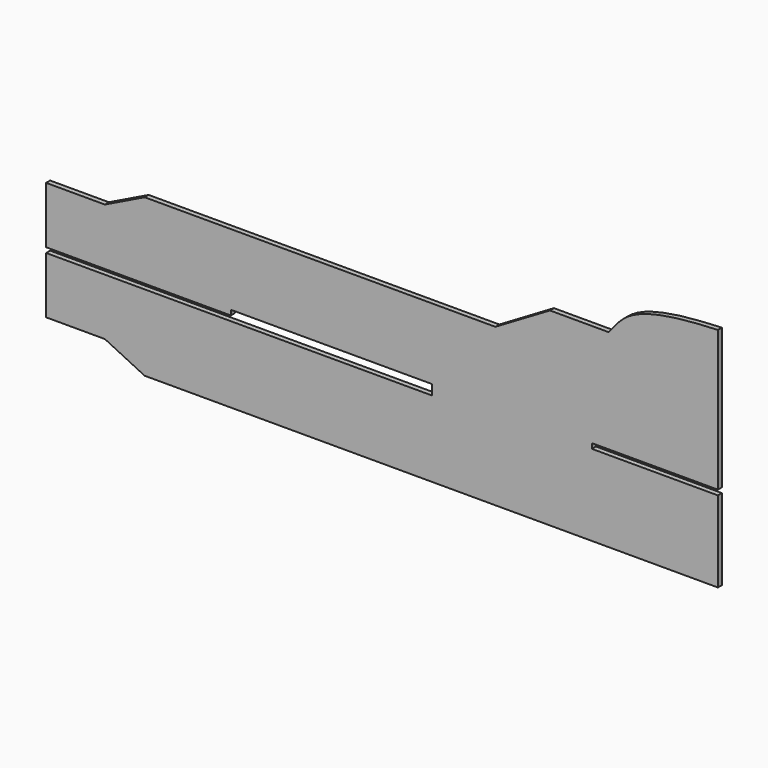
from build123d import *

# Parameters (mm, degrees)
F1_DEPTH = 6


with BuildPart() as f1:
    # F0 (on Front) → F1 (new body)
    with BuildSketch(Plane.XZ):
        with BuildLine():
            Line((-254.1150648835, 130.6133969236), (-254.1150648835, 63.1133969236))
            Line((-254.1150648835, 63.1133969236), (-34.1150648835, 63.1133969236))
            Line((-34.1150648835, 63.1133969236), (-34.1150648835, 69.1133969236))
            Line((-34.1150648835, 69.1133969236), (205.2400112152, 69.1133969236))
            Line((205.2400112152, 69.1133969236), (205.2400112152, 57.1133969236))
            Line((205.2400112152, 57.1133969236), (-254.1150648835, 57.1133969236))
            Line((-254.1150648835, 57.1133969236), (-254.1150648835, -10.3866030764))
            Line((-254.1150648835, -10.3866030764), (-184.1150648835, -10.3866030764))
            Line((-184.1150648835, -10.3866030764), (-136.7391813438, -33.4456573698))
            Line((-136.7391813438, -33.4456573698), (545.8849351165, -33.4456573698))
            Line((545.8849351165, -33.4456573698), (545.8849351165, 63.1133969236))
            Line((545.8849351165, 63.1133969236), (395.8849351165, 63.1133969236))
            Line((395.8849351165, 63.1133969236), (395.8849351165, 69.1133969236))
            Line((395.8849351165, 69.1133969236), (545.8849351165, 69.1133969236))
            Line((545.8849351165, 69.1133969236), (545.8849351165, 236.5543426302))
            add(Edge.make_bspline(
                [(415.8849351165, 191.9407844543), (422.8196679016, 200.9988248792), (438.1767844712, 221.0580379695), (490.3539645978, 233.8094416798), (527.0606780439, 235.623858562), (545.8849351165, 236.5543426302)],
                knots=[0, 0, 0, 0, 0.2862864127, 0.6339868832, 1, 1, 1, 1], degree=3))
            Line((415.8849351165, 191.9407844543), (345.8849351165, 191.9407844543))
            Line((345.8849351165, 191.9407844543), (280.8849351165, 153.6724512171))
            Line((280.8849351165, 153.6724512171), (-136.7391813438, 153.6724512171))
            Line((-136.7391813438, 153.6724512171), (-184.1150648835, 130.6133969236))
            Line((-184.1150648835, 130.6133969236), (-254.1150648835, 130.6133969236))
        make_face()
    extrude(amount=F1_DEPTH)


solid = f1.part
